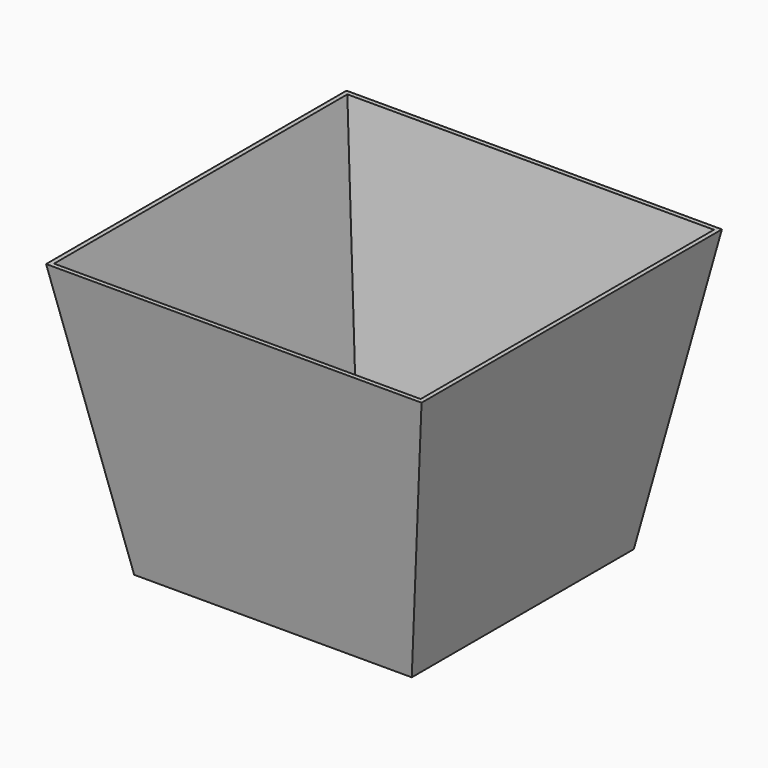
from build123d import *

# Parameters (mm, degrees)
F0_W     = 25.4
F0_H     = 25.4
F1_DEPTH = 25.4
F1_TAPER = -10
F2_T     = -0.4


with BuildPart() as f1:
    # F0 (on Top) → F1 (new body)
    with BuildSketch(Plane.XY):
        Rectangle(F0_W, F0_H)
    extrude(amount=F1_DEPTH, taper=F1_TAPER)

    # F2
    f2_openings = [f1.faces().sort_by_distance(p)[0] for p in [
        (0, 0, 25.4),
    ]]
    offset(amount=F2_T, openings=f2_openings)


solid = f1.part
